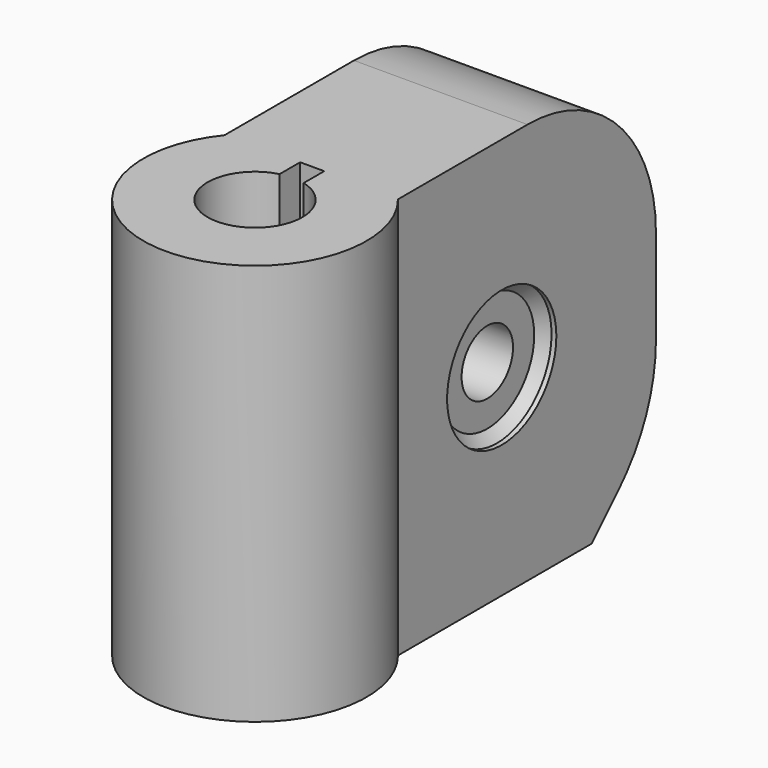
from build123d import *

# Parameters (mm, degrees)
F1_DEPTH = 25
F2_R     = 10
F3_R     = 2
F4_DEPTH = 12.5
F5_SIZE  = 5
F6_DEPTH = 10
F7_START = -4.5
F3_R_2   = 4.25
F7_DEPTH = 0.9
F8_START = 4.5
F8_DEPTH = 0.9
F9_SIZE  = 0.6
F10_R    = 10


with BuildPart() as f1:
    # F0 (on Top) → F1 (new body)
    with BuildSketch(Plane.XY):
        with BuildLine():
            Line((5.4, 12), (-5.4, 12))
            Line((-5.4, 12), (-5.4, 2))
            Line((-5.4, 2), (-5.4, -2))
            Line((-5.4, -2), (-5.4, -8.0747857195))
            ThreePointArc((-5.4, -8.0747857195), (0, -19.4), (5.4, -8.0747857195))
            Line((5.4, -8.0747857195), (5.4, -2))
            Line((5.4, -2), (5.4, 2))
            Line((5.4, 2), (5.4, 12))
        make_face()
        with BuildLine():
            ThreePointArc((4.45, -12.45), (-2.8692333471, -15.8514702703), (-0.75, -8.0636575601))
            Line((-0.75, -8.0636575601), (-0.75, -8))
            Line((-0.75, -8), (0, -8))
            Line((0, -8), (0.75, -8))
            Line((0.75, -8), (0.75, -8.0636575601))
            ThreePointArc((0.75, -8.0636575601), (3.4014702703, -9.5807666529), (4.45, -12.45))
        make_face(mode=Mode.SUBTRACT)
        with BuildLine():
            ThreePointArc((0.75, -9.5969314765), (0, -15.4), (-0.75, -9.5969314765))
            Line((-0.75, -9.5969314765), (-0.75, -8.0636575601))
            ThreePointArc((-0.75, -8.0636575601), (-2.8692333471, -15.8514702703), (4.45, -12.45))
            ThreePointArc((4.45, -12.45), (3.4014702703, -9.5807666529), (0.75, -8.0636575601))
            Line((0.75, -8.0636575601), (0.75, -9.5969314765))
        make_face()
    extrude(amount=F1_DEPTH)

    # F2
    f2_edges = [f1.edges().sort_by_distance(p)[0] for p in [
        (0, 12, 25),
    ]]
    fillet(f2_edges, radius=F2_R)

    # F3 (on Right) → F4 (cut, symmetric)
    with BuildSketch(Plane.YZ):
        with Locations((0, 12.5)):
            Circle(F3_R)
    extrude(amount=F4_DEPTH, both=True, mode=Mode.SUBTRACT)

    # F5
    f5_edges = [f1.edges().sort_by_distance(p)[0] for p in [
        (0, 12, 0),
    ]]
    chamfer(f5_edges, length=F5_SIZE)

    # F0 (on Top) → F6 (cut)
    with BuildSketch(Plane.XY):
        with BuildLine():
            ThreePointArc((0.75, -9.5969314765), (0, -15.4), (-0.75, -9.5969314765))
            Line((-0.75, -9.5969314765), (-0.75, -8.0636575601))
            ThreePointArc((-0.75, -8.0636575601), (-2.8692333471, -15.8514702703), (4.45, -12.45))
            ThreePointArc((4.45, -12.45), (3.4014702703, -9.5807666529), (0.75, -8.0636575601))
            Line((0.75, -8.0636575601), (0.75, -9.5969314765))
        make_face()
    extrude(amount=F6_DEPTH, mode=Mode.SUBTRACT)

    # F3 (on Right) → F7 (cut)
    with BuildSketch(Plane.YZ.offset(F7_START)):
        with Locations((0, 12.5)):
            Circle(F3_R_2)
        with Locations((0, 12.5)):
            Circle(F3_R, mode=Mode.SUBTRACT)
    extrude(amount=-F7_DEPTH, mode=Mode.SUBTRACT)

    # F3 (on Right) → F8 (cut)
    with BuildSketch(Plane.YZ.offset(F8_START)):
        with Locations((0, 12.5)):
            Circle(F3_R_2)
        with Locations((0, 12.5)):
            Circle(F3_R, mode=Mode.SUBTRACT)
    extrude(amount=F8_DEPTH, mode=Mode.SUBTRACT)

    # F9
    f9_edges = [f1.edges().sort_by_distance(p)[0] for p in [
        (4.5, -4.25, 12.5),
        (-4.5, -4.25, 12.5),
    ]]
    chamfer(f9_edges, length=F9_SIZE)

    # F10
    f10_edges = [f1.edges().sort_by_distance(p)[0] for p in [
        (0, 12, 5),
    ]]
    fillet(f10_edges, radius=F10_R)


solid = f1.part
